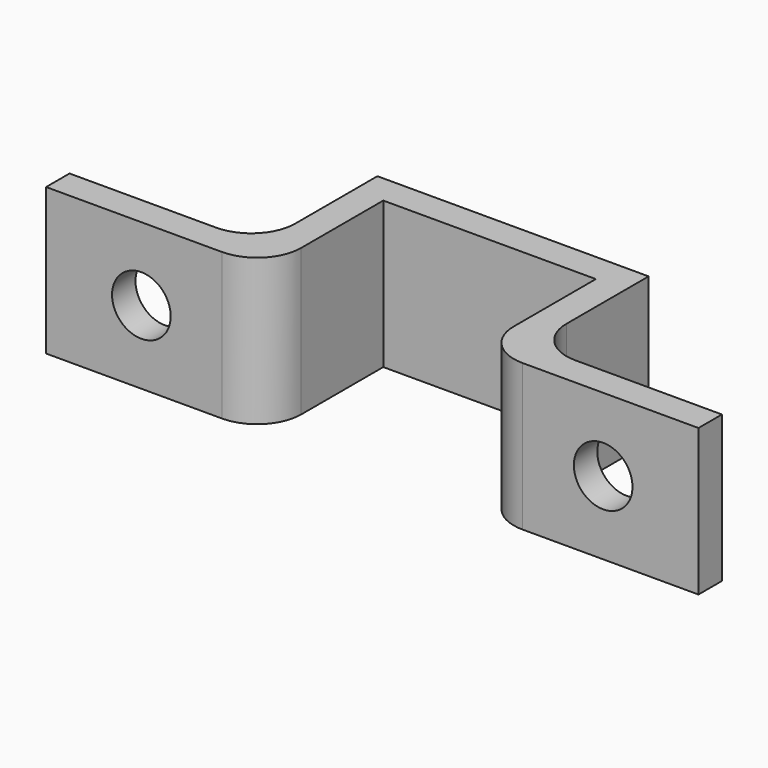
from build123d import *

# Parameters (mm, degrees)
F1_DEPTH = 10
F2_R     = 2
F3_DEPTH = 25
F4_R     = 3


with BuildPart() as f1:
    # F0 (on Top) → F1 (new body)
    with BuildSketch(Plane.XY):
        Polygon((0, 2), (0, 0), (15, 0), (15, 10), (22.25, 10), (29.5, 10), (29.5, 0), (44.5, 0), (44.5, 2), (31.5, 2), (31.5, 12), (22.25, 12), (13, 12), (13, 2), align=None)
    extrude(amount=F1_DEPTH)

    # F2 (on face) → F3 (cut)
    with BuildSketch(Plane(origin=(0, 2, 0), x_dir=(-1, 0, 0), z_dir=(0, 1, 0))):
        with Locations((-38, 5)):
            Circle(F2_R)
        with Locations((-6.5, 5)):
            Circle(F2_R)
    extrude(amount=-F3_DEPTH, mode=Mode.SUBTRACT)

    # F4
    f4_edges = [f1.edges().sort_by_distance(p)[0] for p in [
        (31.5, 2, 5),
        (13, 2, 5),
        (29.5, 0, 5),
        (15, 0, 5),
    ]]
    fillet(f4_edges, radius=F4_R)


solid = f1.part
